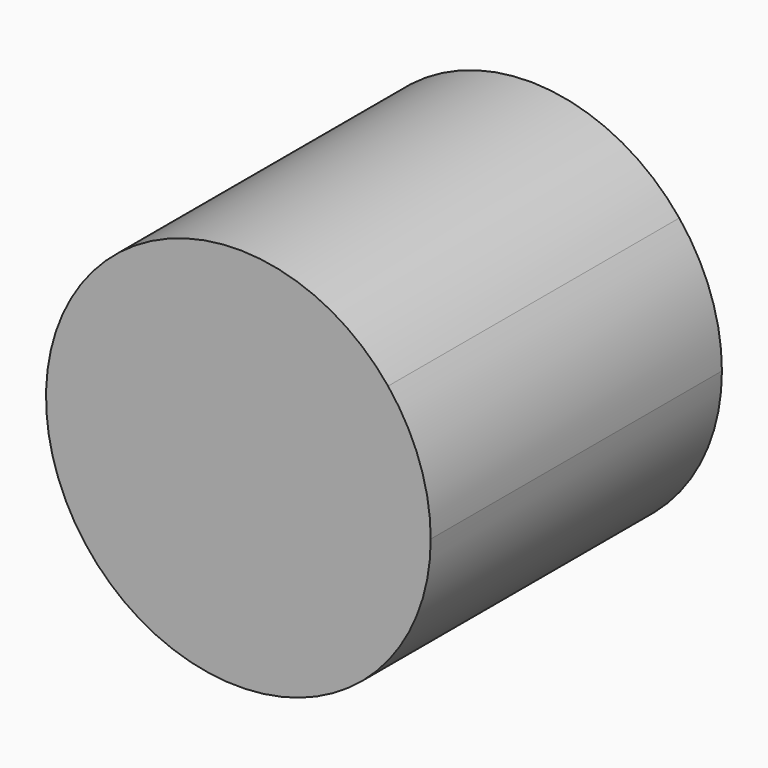
from build123d import *

# Parameters (mm, degrees)
F1_DEPTH = 25.4


with BuildPart() as f1:
    # F0 (on Front) → F1 (new body)
    with BuildSketch(Plane.XZ):
        with BuildLine():
            ThreePointArc((-0.94352, 8.884423), (-1.709106, 13.352992), (-3.918537, 17.311862))
            ThreePointArc((-3.918537, 17.311862), (-21.028226, 20.539182), (-26.932152, 4.159294))
            ThreePointArc((-26.932152, 4.159294), (-11.96609, -4.322922), (-0.94352, 8.884423))
        make_face()
    extrude(amount=F1_DEPTH)


solid = f1.part
